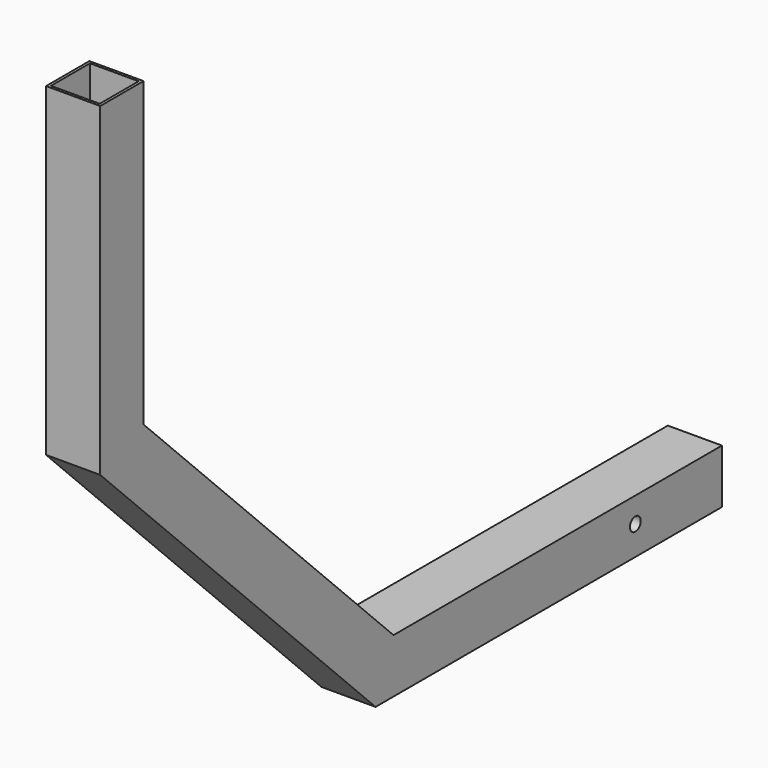
from build123d import *

# Parameters (mm, degrees)
F0_R     = 6.35
F1_DEPTH = 25.4
F2_T     = -2.54


with BuildPart() as f1:
    # F0 (on Right) → F1 (new body, symmetric)
    with BuildSketch(Plane.YZ):
        Polygon((-92.477016151, -209.0213598659), (313.922983849, -209.0213598659), (313.922983849, -158.2213598659), (-71.4458159982, -158.21051105), (-364.765016151, 135.1086891027), (-364.765016151, 418.8666401341), (-415.565016151, 418.8666401341), (-415.565016151, 114.0666401341), align=None)
        with Locations((212.322983849, -181.7519813776)):
            Circle(F0_R, mode=Mode.SUBTRACT)
    extrude(amount=F1_DEPTH, both=True)

    # F2
    f2_openings = [f1.faces().sort_by_distance(p)[0] for p in [
        (0, -390.165016, 418.86664),
        (0, 313.922984, -183.62136),
    ]]
    offset(amount=F2_T, openings=f2_openings, kind=Kind.INTERSECTION)


solid = f1.part
